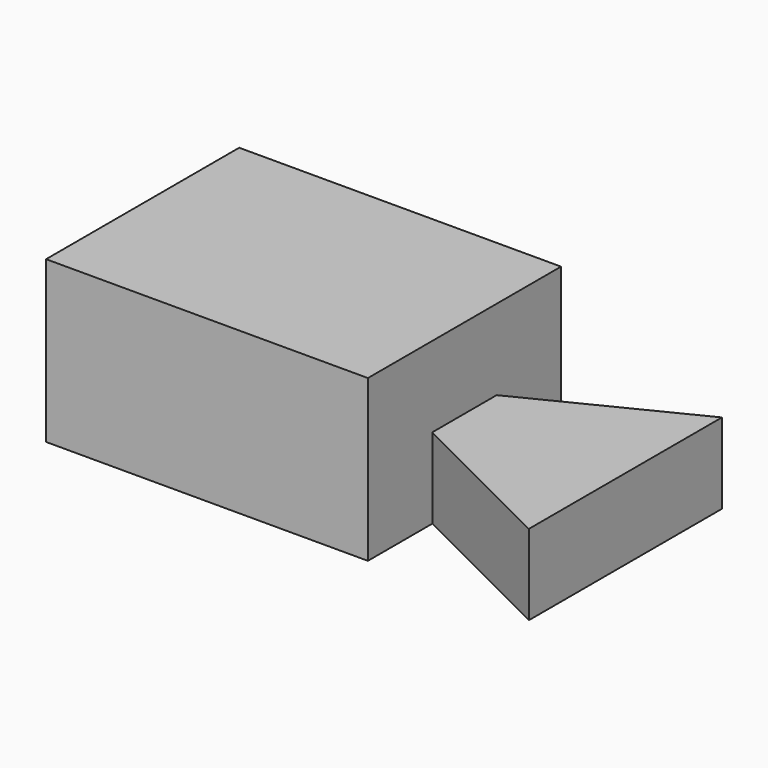
from build123d import *

# Parameters (mm, degrees)
F0_W     = 152.4
F0_H     = 50.8
F2_DEPTH = 76.2
F1_W     = 50.8
F1_H     = 25.4
F3_DEPTH = 76.2
F5_DEPTH = 25.4
F7_DEPTH = 25.4


with BuildPart() as f2:
    # F0 (on Front) → F2 (new body)
    with BuildSketch(Plane.XZ):
        with Locations((76.2, 25.4)):
            Rectangle(F0_W, F0_H)
    extrude(amount=-F2_DEPTH)

    # F1 (on face) → F3 (cut)
    with BuildSketch(Plane.XZ):
        with Locations((127, 38.1)):
            Rectangle(F1_W, F1_H)
    extrude(amount=-F3_DEPTH, mode=Mode.SUBTRACT)

    # F4 (on Top) → F5 (cut)
    with BuildSketch(Plane.XY):
        Polygon((101.6, 25.4), (101.6, 0), (152.4, 0), align=None)
    extrude(amount=F5_DEPTH, mode=Mode.SUBTRACT)

    # F6 (on face) → F7 (cut)
    with BuildSketch(Plane.XY.offset(25.4)):
        Polygon((152.4, 76.2), (101.6, 76.2), (101.6, 50.8), align=None)
    extrude(amount=-F7_DEPTH, mode=Mode.SUBTRACT)


solid = f2.part
